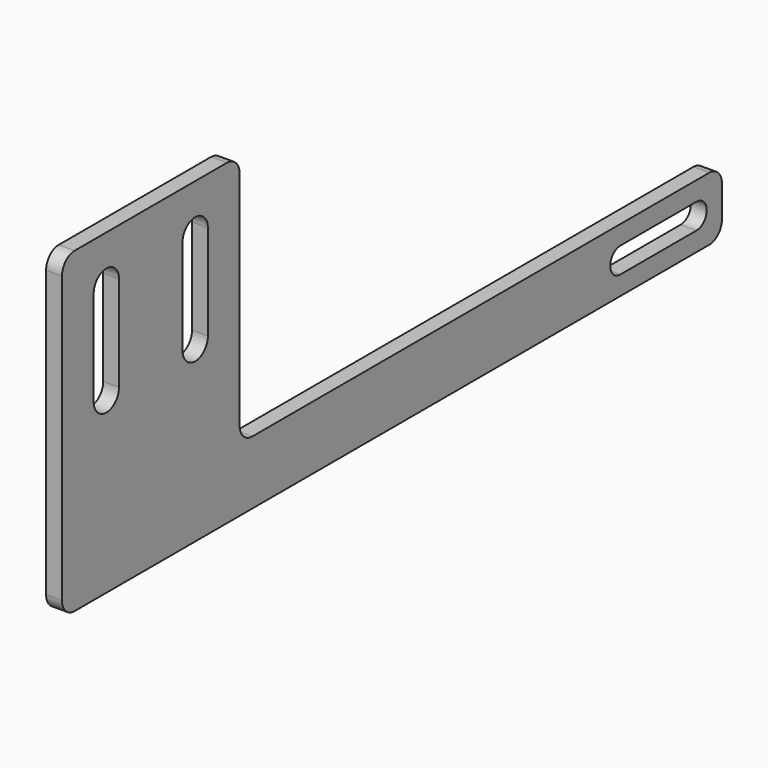
from build123d import *

# Parameters (mm, degrees)
F1_DEPTH = 5


with BuildPart() as f1:
    # F0 (on Right) → F1 (new body)
    with BuildSketch(Plane.YZ):
        with BuildLine():
            ThreePointArc((-125, 100), (-128.535534, 98.535534), (-130, 95))
            Line((-130, 95), (-130, 5))
            ThreePointArc((-130, 5), (-128.535534, 1.464466), (-125, 0))
            Line((-125, 0), (125, 0))
            ThreePointArc((125, 0), (128.535534, 1.464466), (130, 5))
            Line((130, 5), (130, 15))
            ThreePointArc((130, 15), (128.535534, 18.535534), (125, 20))
            Line((125, 20), (-55, 20))
            ThreePointArc((-55, 20), (-58.535534, 21.464466), (-60, 25))
            Line((-60, 25), (-60, 95))
            ThreePointArc((-60, 95), (-61.464466, 98.535534), (-65, 100))
            Line((-65, 100), (-125, 100))
        make_face()
        with BuildLine():
            Line((90, 14), (120, 14))
            ThreePointArc((120, 14), (124, 10), (120, 6))
            Line((120, 6), (90, 6))
            ThreePointArc((90, 6), (86, 10), (90, 14))
        make_face(mode=Mode.SUBTRACT)
        with BuildLine():
            ThreePointArc((-117.5, 85), (-112.5, 90), (-107.5, 85))
            Line((-107.5, 85), (-107.5, 55))
            ThreePointArc((-107.5, 55), (-112.5, 50), (-117.5, 55))
            Line((-117.5, 55), (-117.5, 85))
        make_face(mode=Mode.SUBTRACT)
        with BuildLine():
            ThreePointArc((-82.5, 85), (-77.5, 90), (-72.5, 85))
            Line((-72.5, 85), (-72.5, 55))
            ThreePointArc((-72.5, 55), (-77.5, 50), (-82.5, 55))
            Line((-82.5, 55), (-82.5, 85))
        make_face(mode=Mode.SUBTRACT)
    extrude(amount=F1_DEPTH)


solid = f1.part
